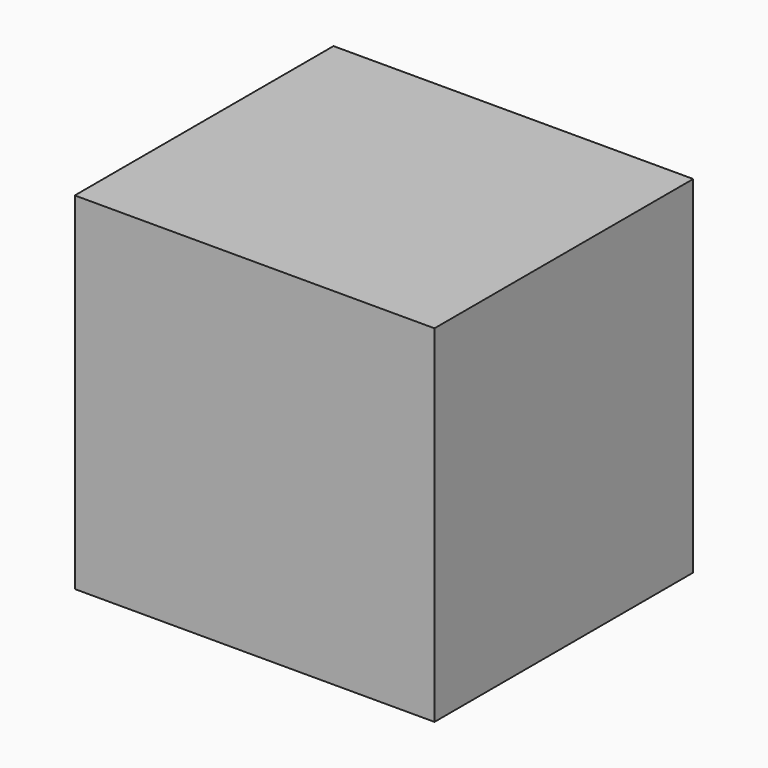
from build123d import *

# Parameters (mm, degrees)
F0_W     = 10.9
F0_H     = 9.8
F1_DEPTH = 10.5
F2_R     = 1.214897
F3_DEPTH = 1


with BuildPart() as f1:
    # F0 (on Top) → F1 (new body)
    with BuildSketch(Plane.XY):
        with Locations((2.88801, -1.576942)):
            Rectangle(F0_W, F0_H)
    extrude(amount=F1_DEPTH)

    # F2 (on face) → F3 (cut)
    with BuildSketch(Plane.XY):
        with Locations((2.63801, -1.576942)):
            Circle(F2_R)
    extrude(amount=F3_DEPTH, mode=Mode.SUBTRACT)


solid = f1.part
